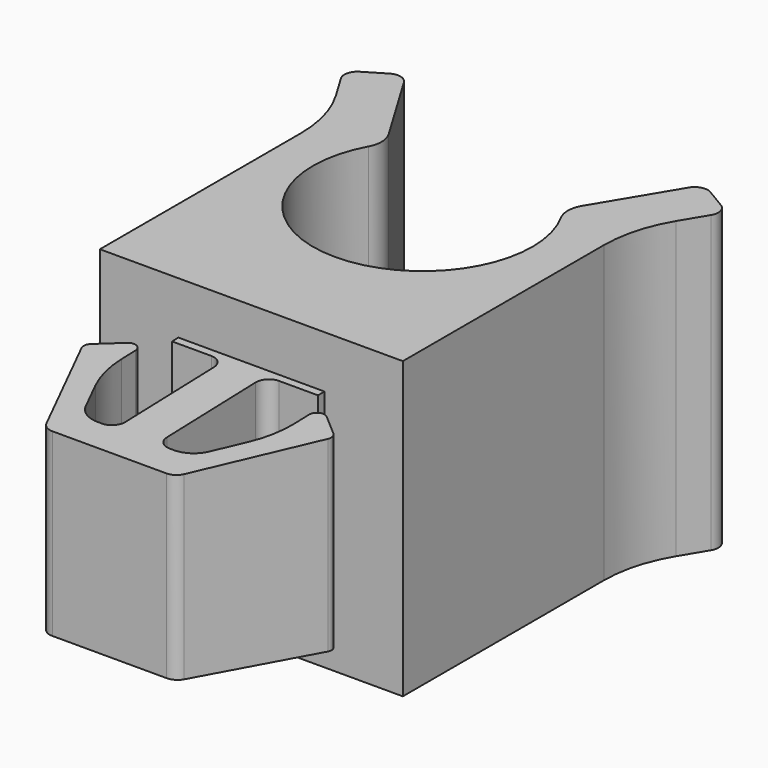
from build123d import *

# Parameters (mm, degrees)
F1_DEPTH = 11.3
F3_DEPTH = 6


with BuildPart() as f1:
    # F0 (on Top) → F1 (new body)
    with BuildSketch(Plane.XY):
        with BuildLine():
            Line((-5.8, 9.616702), (-5.8, 0))
            Line((-5.8, 0), (-2.794636, 0))
            Line((-2.794636, 0), (0, 0))
            Line((0, 0), (2.794636, 0))
            Line((2.794636, 0), (5.8, 0))
            Line((5.8, 0), (5.8, 9.616702))
            ThreePointArc((5.8, 9.616702), (5.981023, 10.949918), (6.510986, 12.186597))
            Line((6.510986, 12.186597), (7.084947, 13.144507))
            ThreePointArc((7.084947, 13.144507), (7.141044, 13.523056), (6.913036, 13.830398))
            Line((6.913036, 13.830398), (6.141013, 14.292979))
            ThreePointArc((6.141013, 14.292979), (5.762464, 14.349076), (5.455122, 14.121067))
            Line((5.455122, 14.121067), (3.707265, 11.20399))
            ThreePointArc((3.707265, 11.20399), (3.565273, 10.710247), (3.68717, 10.211162))
            ThreePointArc((3.68717, 10.211162), (3.61157, 6.056041), (0, 4))
            ThreePointArc((0, 4), (-3.61157, 6.056041), (-3.68717, 10.211162))
            ThreePointArc((-3.68717, 10.211162), (-3.565273, 10.710247), (-3.707265, 11.20399))
            Line((-3.707265, 11.20399), (-5.455122, 14.121067))
            ThreePointArc((-5.455122, 14.121067), (-5.762464, 14.349076), (-6.141013, 14.292979))
            Line((-6.141013, 14.292979), (-6.913036, 13.830398))
            ThreePointArc((-6.913036, 13.830398), (-7.141044, 13.523056), (-7.084947, 13.144507))
            Line((-7.084947, 13.144507), (-6.510986, 12.186597))
            ThreePointArc((-6.510986, 12.186597), (-5.981023, 10.949918), (-5.8, 9.616702))
        make_face()
        with BuildLine():
            Line((0, 0), (-2.794636, 0))
            Line((-2.794636, 0), (-2.794636, -0.3))
            Line((-2.794636, -0.3), (-1.294636, -0.3))
            ThreePointArc((-1.294636, -0.3), (-0.941083, -0.446447), (-0.794636, -0.8))
            Line((-0.794636, -0.8), (-0.794636, -5.031464))
            ThreePointArc((-0.794636, -5.031464), (-0.941083, -5.385017), (-1.294636, -5.531464))
            Line((-1.294636, -5.531464), (-1.463447, -5.531464))
            ThreePointArc((-1.463447, -5.531464), (-1.993984, -5.379125), (-2.362879, -4.968524))
            Line((-2.362879, -4.968524), (-2.921032, -3.819892))
            ThreePointArc((-2.921032, -3.819892), (-3.221438, -2.968614), (-3.323303, -2.071652))
            Line((-3.323303, -2.071652), (-3.323303, -1.400941))
            ThreePointArc((-3.323303, -1.400941), (-3.497602, -1.128545), (-3.817965, -1.172672))
            Line((-3.817965, -1.172672), (-4.639802, -1.873516))
            ThreePointArc((-4.639802, -1.873516), (-4.738785, -2.040367), (-4.714969, -2.232902))
            Line((-4.714969, -2.232902), (-2.636774, -6.509652))
            ThreePointArc((-2.636774, -6.509652), (-2.452327, -6.714952), (-2.187058, -6.791122))
            Line((-2.187058, -6.791122), (0, -6.791122))
            Line((0, -6.791122), (2.187058, -6.791122))
            ThreePointArc((2.187058, -6.791122), (2.452327, -6.714952), (2.636774, -6.509652))
            Line((2.636774, -6.509652), (4.714969, -2.232902))
            ThreePointArc((4.714969, -2.232902), (4.738785, -2.040367), (4.639802, -1.873516))
            Line((4.639802, -1.873516), (3.817965, -1.172672))
            ThreePointArc((3.817965, -1.172672), (3.497602, -1.128545), (3.323303, -1.400941))
            Line((3.323303, -1.400941), (3.323303, -2.071652))
            ThreePointArc((3.323303, -2.071652), (3.221438, -2.968614), (2.921032, -3.819892))
            Line((2.921032, -3.819892), (2.362879, -4.968524))
            ThreePointArc((2.362879, -4.968524), (1.993984, -5.379125), (1.463447, -5.531464))
            Line((1.463447, -5.531464), (1.294636, -5.531464))
            ThreePointArc((1.294636, -5.531464), (0.941083, -5.385017), (0.794636, -5.031464))
            Line((0.794636, -5.031464), (0.794636, -0.8))
            ThreePointArc((0.794636, -0.8), (0.941083, -0.446447), (1.294636, -0.3))
            Line((1.294636, -0.3), (2.794636, -0.3))
            Line((2.794636, -0.3), (2.794636, 0))
            Line((2.794636, 0), (0, 0))
        make_face()
    extrude(amount=F1_DEPTH)

    # F2 (on Right) → F3 (cut, symmetric)
    with BuildSketch(Plane.YZ):
        Polygon((-6.791122, 0), (0, 0), (0, 2), (-6.791122, 2.2), align=None)
        Polygon((-6.791122, 9.1), (0, 9.3), (0, 11.3), (-6.791122, 11.3), align=None)
    extrude(amount=F3_DEPTH, both=True, mode=Mode.SUBTRACT)


solid = f1.part
